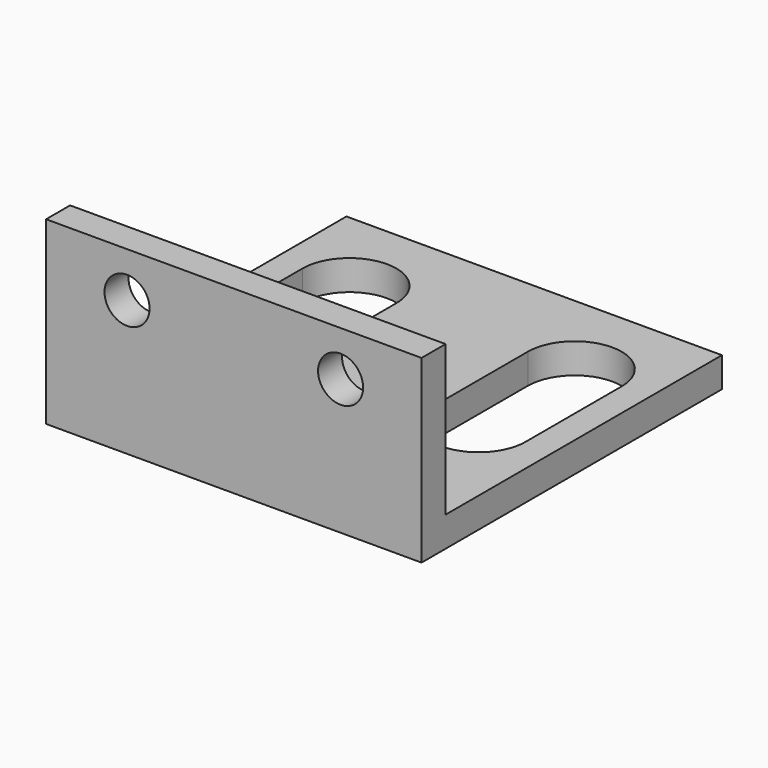
from build123d import *

# Parameters (mm, degrees)
F1_DEPTH = 25
F2_R     = 1.5
F3_DEPTH = 25
F5_DEPTH = 25


with BuildPart() as f1:
    # F0 (on Right) → F1 (new body)
    with BuildSketch(Plane.YZ):
        Polygon((0, 12), (0, 0), (25, 0), (25, 2), (2, 2), (2, 12), align=None)
    extrude(amount=-F1_DEPTH)

    # F2 (on face) → F3 (cut)
    with BuildSketch(Plane(origin=(0, 2, 0), x_dir=(-1, 0, 0), z_dir=(0, 1, 0))):
        with Locations((5.39, 9)):
            Circle(F2_R)
        with Locations((19.61, 9)):
            Circle(F2_R)
    extrude(amount=-F3_DEPTH, mode=Mode.SUBTRACT)

    # F4 (on face) → F5 (cut)
    with BuildSketch(Plane.XY.offset(2)):
        with BuildLine():
            Line((-16.875, 11), (-16.875, 19))
            ThreePointArc((-16.875, 19), (-20, 22.125), (-23.125, 19))
            Line((-23.125, 19), (-23.125, 11))
            ThreePointArc((-23.125, 11), (-20, 7.875), (-16.875, 11))
        make_face()
        with BuildLine():
            Line((-1.875, 11), (-1.875, 19))
            ThreePointArc((-1.875, 19), (-5, 22.125), (-8.125, 19))
            Line((-8.125, 19), (-8.125, 11))
            ThreePointArc((-8.125, 11), (-5, 7.875), (-1.875, 11))
        make_face()
    extrude(amount=-F5_DEPTH, mode=Mode.SUBTRACT)


solid = f1.part
